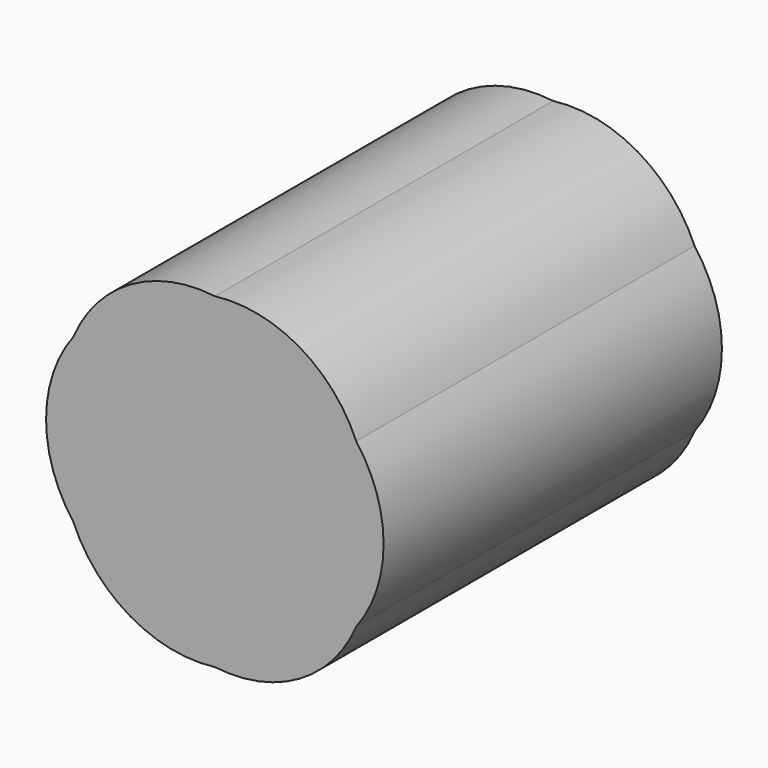
from build123d import *

# Parameters (mm, degrees)
F1_DEPTH = 5


with BuildPart() as f1:
    # F0 (on Front) → F1 (new body)
    with BuildSketch(Plane.XZ):
        with BuildLine():
            ThreePointArc((1.671294, 0.964922), (0.9975, 1.727721), (0, 1.929844))
            ThreePointArc((0, 1.929844), (-0.9975, 1.727721), (-1.671294, 0.964922))
            ThreePointArc((-1.671294, 0.964922), (-1.995, 0), (-1.671294, -0.964922))
            ThreePointArc((-1.671294, -0.964922), (-0.9975, -1.727721), (0, -1.929844))
            ThreePointArc((0, -1.929844), (0.9975, -1.727721), (1.671294, -0.964922))
            ThreePointArc((1.671294, -0.964922), (1.995, 0), (1.671294, 0.964922))
        make_face()
    extrude(amount=F1_DEPTH)


solid = f1.part
